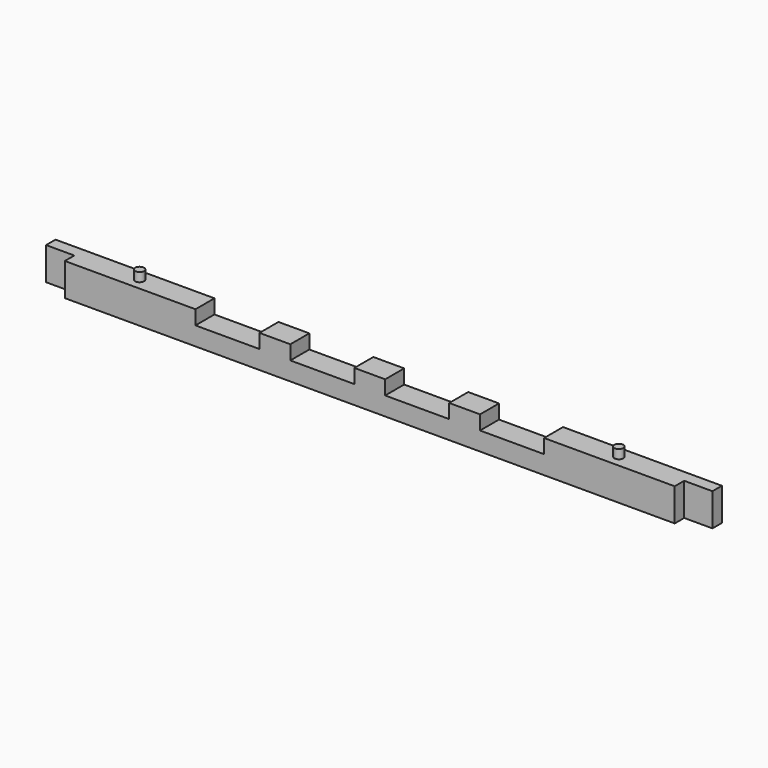
from build123d import *

# Parameters (mm, degrees)
F1_DEPTH = 5
F0_W     = 5.95
F0_H     = 6.9
F2_DEPTH = 2.5
F5_R     = 0.95
F6_DEPTH = 1.9
F4_R     = 0.95
F7_DEPTH = 1.9


with BuildPart() as f1:
    # F0 (on Front) → F1 (new body)
    with BuildSketch(Plane.XZ):
        Polygon((64.440538, -6.86276), (64.440538, 0.03724), (36.890538, 0.03724), (36.890538, -2.96276), (23.390538, -2.96276), (23.390538, 0.03724), (16.890538, 0.03724), (16.890538, -2.96276), (3.390538, -2.96276), (3.390538, 0.03724), (-3.109462, 0.03724), (-3.109462, -2.96276), (-16.609462, -2.96276), (-16.609462, 0.03724), (-23.109462, 0.03724), (-23.109462, -2.96276), (-36.609462, -2.96276), (-36.609462, 0.03724), (-64.159462, 0.03724), (-64.159462, -6.86276), align=None)
    extrude(amount=F1_DEPTH)

    # F0 (on Front) → F2 (join)
    with BuildSketch(Plane.XZ):
        with Locations((-67.134462, -3.41276)):
            Rectangle(F0_W, F0_H)
        with Locations((67.415538, -3.41276)):
            Rectangle(F0_W, F0_H)
    extrude(amount=F2_DEPTH)

    # F5 (on face) → F6 (join)
    with BuildSketch(Plane.XY.offset(0.03724)):
        with Locations((-50.384462, -2.5)):
            Circle(F5_R)
    extrude(amount=F6_DEPTH)

    # F4 (on face) → F7 (join)
    with BuildSketch(Plane.XY.offset(0.03724)):
        with Locations((50.665538, -2.5)):
            Circle(F4_R)
    extrude(amount=F7_DEPTH)


solid = f1.part
